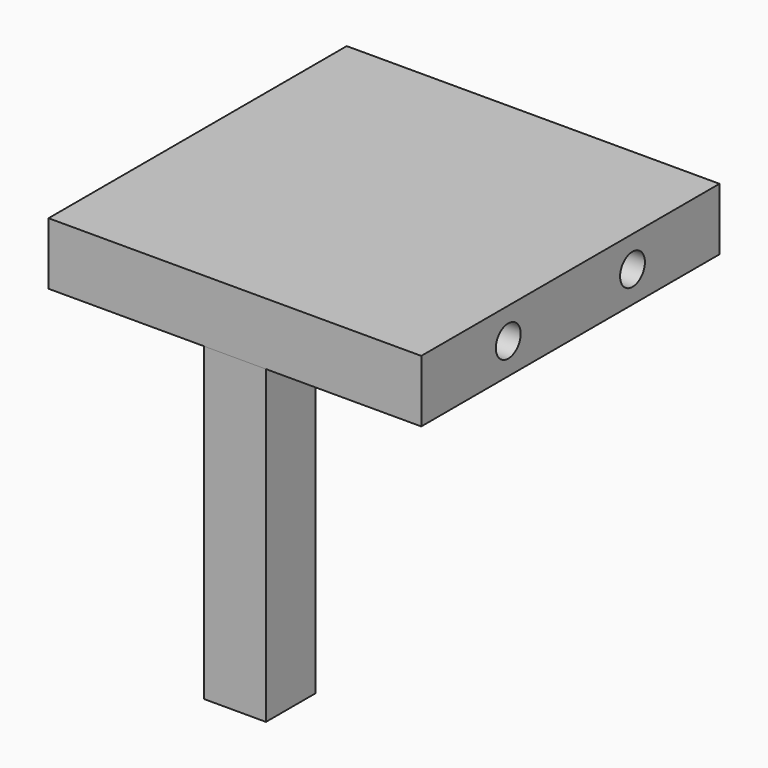
from build123d import *

# Parameters (mm, degrees)
F1_DEPTH = 152.400002
F0_W     = 25.4
F0_H     = 127
F2_DEPTH = 25.4
F3_R     = 6.35
F4_DEPTH = 12.7
F5_R     = 6.35
F6_DEPTH = 12.7
F7_R     = 6.35
F8_DEPTH = 38.1


with BuildPart() as f1:
    # F0 (on Front) → F1 (new body)
    with BuildSketch(Plane.XZ):
        Polygon((12.7, 76.2), (-12.7, 76.2), (-76.2, 76.2), (-76.2, 50.8), (-12.7, 50.8), (12.7, 50.8), (76.2, 50.8), (76.2, 76.2), align=None)
    extrude(amount=-F1_DEPTH)

    # F3 (on face) → F4 (cut)
    with BuildSketch(Plane(origin=(-76.2, 0, 0), x_dir=(0, -1, 0), z_dir=(-1, 0, 0))):
        with Locations((-107.950002, 63.5)):
            Circle(F3_R)
        with Locations((-44.45, 63.5)):
            Circle(F3_R)
    extrude(amount=-F4_DEPTH, mode=Mode.SUBTRACT)

    # F5 (on face) → F6 (cut)
    with BuildSketch(Plane(origin=(0, 152.400002, 0), x_dir=(-1, 0, 0), z_dir=(0, 1, 0))):
        with Locations((-31.75, 63.5)):
            Circle(F5_R)
        with Locations((31.75, 63.5)):
            Circle(F5_R)
    extrude(amount=-F6_DEPTH, mode=Mode.SUBTRACT)

    # F7 (on face) → F8 (cut)
    with BuildSketch(Plane.YZ.offset(76.2)):
        with Locations((44.45, 63.5)):
            Circle(F7_R)
        with Locations((107.950002, 63.5)):
            Circle(F7_R)
    extrude(amount=-F8_DEPTH, mode=Mode.SUBTRACT)


with BuildPart() as f2:
    # F0 (on Front) → F2 (new body)
    with BuildSketch(Plane.XZ):
        with Locations((0, -12.7)):
            Rectangle(F0_W, F0_H)
    extrude(amount=-F2_DEPTH)


solid = Compound([f1.part, f2.part])
